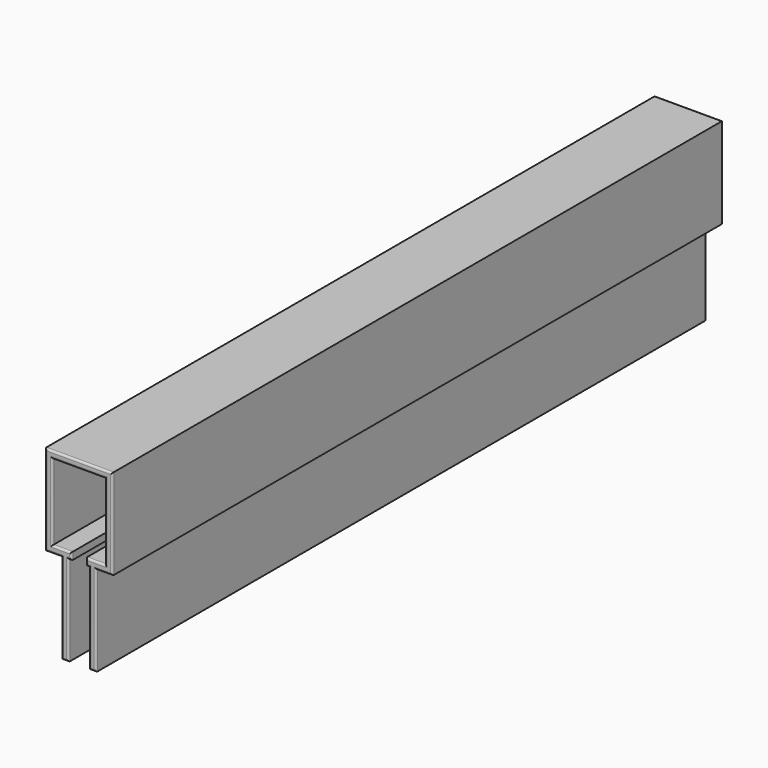
from build123d import *

# Parameters (mm, degrees)
F1_DEPTH = 167.64
F2_R     = 0.429247


with BuildPart() as f1:
    # F0 (on Front) → F1 (new body)
    with BuildSketch(Plane.XZ):
        Polygon((-7.488874, -1.712549), (-5.888674, -1.712549), (-5.888674, 18.099476), (-5.253674, 18.099476), (-5.253674, 19.699676), (-9.456766, 19.699676), (-9.456766, 36.387476), (2.125634, 36.387476), (2.125634, 19.699676), (-2.0828, 19.699676), (-2.0828, 18.099476), (-1.4478, 18.099476), (-1.445737, -1.712549), (0.154463, -1.712382), (0.154463, 18.099476), (3.725834, 18.099476), (3.725834, 37.987676), (-11.056966, 37.987676), (-11.056966, 18.099476), (-7.490937, 18.099476), align=None)
    extrude(amount=F1_DEPTH)

    # F2
    f2_edges = [f1.edges().sort_by_distance(p)[0] for p in [
        (-9.273951, 0, 18.099476),
        (-7.489906, 0, 8.193463),
        (-6.688774, 0, -1.712549),
        (-5.888674, 0, 8.193463),
        (-5.571174, 0, 18.099476),
        (-5.253674, 0, 18.899576),
        (-7.35522, 0, 19.699676),
        (-9.456766, 0, 28.043576),
        (-3.665566, 0, 36.387476),
        (2.125634, 0, 28.043576),
        (0.021417, 0, 19.699676),
        (-2.0828, 0, 18.899576),
        (-1.7653, 0, 18.099476),
        (-1.446769, 0, 8.193463),
        (-0.645637, 0, -1.712466),
        (0.154463, 0, 8.193547),
        (1.940149, 0, 18.099476),
        (3.725834, 0, 28.043576),
        (-3.665566, 0, 37.987676),
        (-11.056966, 0, 28.043576),
        (-9.273951, -167.64, 18.099476),
        (-7.489906, -167.64, 8.193463),
        (-6.688774, -167.64, -1.712549),
        (-5.888674, -167.64, 8.193463),
        (-5.571174, -167.64, 18.099476),
        (-5.253674, -167.64, 18.899576),
        (-7.35522, -167.64, 19.699676),
        (-9.456766, -167.64, 28.043576),
        (-3.665566, -167.64, 36.387476),
        (2.125634, -167.64, 28.043576),
        (0.021417, -167.64, 19.699676),
        (-2.0828, -167.64, 18.899576),
        (-1.7653, -167.64, 18.099476),
        (-1.446769, -167.64, 8.193463),
        (-0.645637, -167.64, -1.712466),
        (0.154463, -167.64, 8.193547),
        (1.940149, -167.64, 18.099476),
        (3.725834, -167.64, 28.043576),
        (-3.665566, -167.64, 37.987676),
        (-11.056966, -167.64, 28.043576),
    ]]
    fillet(f2_edges, radius=F2_R)


solid = f1.part
